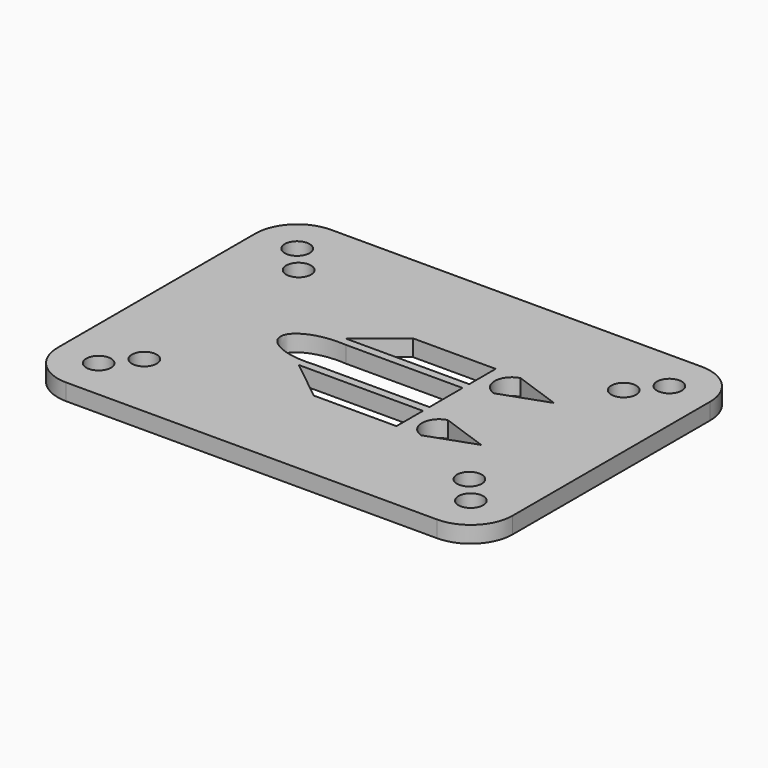
from build123d import *

# Parameters (mm, degrees)
F0_W      = 55
F0_H      = 40
F1_DEPTH  = 2
F3_R      = 5.08
F4_R      = 5.08
F5_R      = 5.08
F6_R      = 5.08
F8_R      = 1.5
F9_DEPTH  = 25.4
F10_W     = 10
F10_H     = 4
F11_DEPTH = 25.4


with BuildPart() as f1:
    # F0 (on Top) → F1 (new body)
    with BuildSketch(Plane.XY):
        with Locations((27.5, 20)):
            Rectangle(F0_W, F0_H)
    extrude(amount=F1_DEPTH)

    # F3
    f3_edges = [f1.edges().sort_by_distance(p)[0] for p in [
        (55, 0, 1),
    ]]
    fillet(f3_edges, radius=F3_R)

    # F4
    f4_edges = [f1.edges().sort_by_distance(p)[0] for p in [
        (55, 40, 1),
    ]]
    fillet(f4_edges, radius=F4_R)

    # F5
    f5_edges = [f1.edges().sort_by_distance(p)[0] for p in [
        (0, 40, 1),
    ]]
    fillet(f5_edges, radius=F5_R)

    # F6
    f6_edges = [f1.edges().sort_by_distance(p)[0] for p in [
        (0, 0, 1),
    ]]
    fillet(f6_edges, radius=F6_R)

    # F8 (on offset) → F9 (cut)
    with BuildSketch(Plane.XY.offset(2)):
        with Locations((50, 5)):
            Circle(F8_R)
        with Locations((47.1494022449, 8.3385913854)):
            Circle(F8_R)
        with Locations((47.1494022449, 31.6614086146)):
            Circle(F8_R)
        with Locations((50, 35)):
            Circle(F8_R)
        with Locations((7.8505977551, 31.6614086146)):
            Circle(F8_R)
        with Locations((5, 35)):
            Circle(F8_R)
        with Locations((7.8505977551, 8.3385913854)):
            Circle(F8_R)
        with Locations((5, 5)):
            Circle(F8_R)
    extrude(amount=-F9_DEPTH, mode=Mode.SUBTRACT)

    # F10 (on face) → F11 (cut)
    with BuildSketch(Plane.XY.offset(2)):
        with BuildLine():
            Line((20, 17.5), (20, 22.5))
            Line((20, 22.5), (20.8850657517, 22.5))
            add(Edge.make_bspline(
                [(20.8850657517, 22.5), (14.9931568267, 23.0368228686), (14.9931568267, 20)],
                knots=[4.5346839474, 4.5346839474, 4.5346839474, 6.2831853072, 6.2831853072, 6.2831853072], degree=2, weights=[1, 0.6415718139, 1]))
            add(Edge.make_bspline(
                [(14.9931568267, 20), (14.9931568267, 16.9631771314), (20.8850657517, 17.5)],
                knots=[0, 0, 0, 1.7485013598, 1.7485013598, 1.7485013598], degree=2, weights=[1, 0.6415718139, 1]))
            Line((20.8850657517, 17.5), (20, 17.5))
        make_face()
        with BuildLine():
            Line((20.8850657517, 22.5), (20, 22.5))
            Line((20, 22.5), (20, 17.5))
            Line((20, 17.5), (20.8850657517, 17.5))
            add(Edge.make_bspline(
                [(20.8850657517, 17.5), (25.0068431733, 17.8755428686), (25.0068431733, 20), (25.0068431733, 22.1244571314), (20.8850657517, 22.5)],
                knots=[1.7485013598, 1.7485013598, 1.7485013598, 3.1415926536, 3.1415926536, 4.5346839474, 4.5346839474, 4.5346839474], degree=2, weights=[1, 0.767062975, 1, 0.767062975, 1]))
        make_face()
        with BuildLine():
            Line((35, 22.5), (20.8850657517, 22.5))
            add(Edge.make_bspline(
                [(20.8850657517, 17.5), (25.0068431733, 17.8755428686), (25.0068431733, 20), (25.0068431733, 22.1244571314), (20.8850657517, 22.5)],
                knots=[1.7485013598, 1.7485013598, 1.7485013598, 3.1415926536, 3.1415926536, 4.5346839474, 4.5346839474, 4.5346839474], degree=2, weights=[1, 0.767062975, 1, 0.767062975, 1]))
            Line((20.8850657517, 17.5), (35, 17.5))
            Line((35, 17.5), (35, 22.5))
        make_face()
        with Locations((30, 25.5)):
            Rectangle(F10_W, F10_H)
        Polygon((25, 23.5), (25, 27.5), (20, 23.5), align=None)
        Polygon((20, 16.5094), (25, 12.5094), (25, 16.5094), align=None)
        with Locations((30, 14.5094)):
            Rectangle(F10_W, F10_H)
        with BuildLine():
            Line((43.6482731998, 25.5), (38, 27.5))
            ThreePointArc((38, 27.5), (36.4781820371, 25.5), (38, 23.5))
            Line((38, 23.5), (43.6482731998, 25.5))
        make_face()
        with BuildLine():
            ThreePointArc((38, 16.5094), (36.4781820371, 14.5094), (38, 12.5094))
            Line((38, 12.5094), (43.6482731998, 14.5094))
            Line((43.6482731998, 14.5094), (38, 16.5094))
        make_face()
    extrude(amount=-F11_DEPTH, mode=Mode.SUBTRACT)


solid = f1.part
